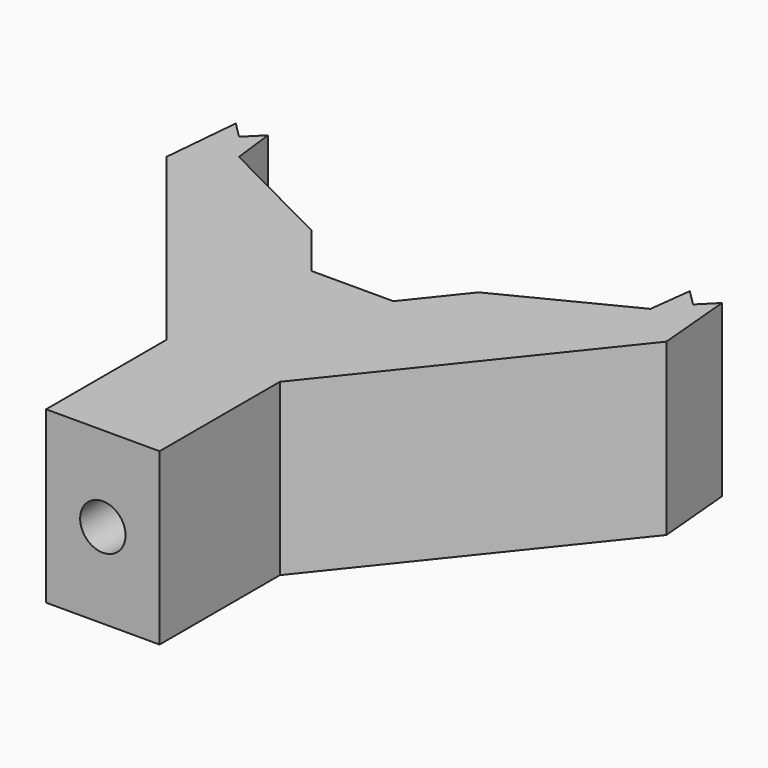
from build123d import *

# Parameters (mm, degrees)
F1_DEPTH = 19.05
F2_R     = 2.54
F3_DEPTH = 25.4


with BuildPart() as f1:
    # F0 (on Top) → F1 (new body)
    with BuildSketch(Plane.XY):
        with BuildLine():
            Line((6.35, 0), (0, 0))
            Line((0, 0), (0, -6.35))
            ThreePointArc((0, -6.35), (2.7507484386, -5.7232755505), (4.95851694, -3.966813552))
            ThreePointArc((4.95851694, -3.966813552), (5.9920398267, -2.1018940781), (6.35, 0))
        make_face()
        with BuildLine():
            Line((0, -6.35), (0, 0))
            Line((0, 0), (-6.35, 0))
            ThreePointArc((-6.35, 0), (-5.9920398267, -2.1018940781), (-4.95851694, -3.966813552))
            ThreePointArc((-4.95851694, -3.966813552), (-2.7507484386, -5.7232755505), (0, -6.35))
        make_face()
        with BuildLine():
            Line((0, 0), (-4.0659838908, 5.0824798635))
            Line((-4.0659838908, 5.0824798635), (-4.95851694, 3.966813552))
            ThreePointArc((-4.95851694, 3.966813552), (-5.9920398267, 2.1018940781), (-6.35, 0))
            Line((-6.35, 0), (0, 0))
        make_face()
        with BuildLine():
            Line((4.0659838908, 5.0824798635), (0, 0))
            Line((0, 0), (6.35, 0))
            ThreePointArc((6.35, 0), (5.9920398267, 2.1018940781), (4.95851694, 3.966813552))
            Line((4.95851694, 3.966813552), (4.0659838908, 5.0824798635))
        make_face()
        Polygon((0, 10.1649597269), (-4.0659838908, 5.0824798635), (0, 0), (4.0659838908, 5.0824798635), align=None)
        with BuildLine():
            Line((-4.0659838908, 5.0824798635), (-12.7, 15.875))
            Line((-12.7, 15.875), (-23.0199118688, 28.774889836))
            Line((-23.0199118688, 28.774889836), (-25.4, 31.75))
            Line((-25.4, 31.75), (-27.1960512242, 33.5460512242))
            Line((-27.1960512242, 33.5460512242), (-27.9784288088, 24.8080762841))
            Line((-27.9784288088, 24.8080762841), (-6.35, -2.2274597269))
            Line((-6.35, -2.2274597269), (-6.35, 0))
            ThreePointArc((-6.35, 0), (-5.9920398267, 2.1018940781), (-4.95851694, 3.966813552))
            Line((-4.95851694, 3.966813552), (-4.0659838908, 5.0824798635))
        make_face()
        Polygon((-4.5680322185, 15.875), (-12.7, 15.875), (-4.0659838908, 5.0824798635), (0, 10.1649597269), align=None)
        Polygon((4.5680322185, 15.875), (0, 10.1649597269), (4.0659838908, 5.0824798635), (12.7, 15.875), align=None)
        Polygon((4.5680322185, 15.875), (-4.5680322185, 15.875), (0, 10.1649597269), align=None)
        with BuildLine():
            Line((12.7, 15.875), (4.0659838908, 5.0824798635))
            Line((4.0659838908, 5.0824798635), (4.95851694, 3.966813552))
            ThreePointArc((4.95851694, 3.966813552), (5.9920398267, 2.1018940781), (6.35, 0))
            Line((6.35, 0), (6.35, -2.2274597269))
            Line((6.35, -2.2274597269), (27.9784288088, 24.8080762841))
            Line((27.9784288088, 24.8080762841), (27.1960512242, 33.5460512242))
            Line((27.1960512242, 33.5460512242), (25.4, 31.75))
            Line((25.4, 31.75), (23.0199118688, 28.774889836))
            Line((23.0199118688, 28.774889836), (12.7, 15.875))
        make_face()
        Polygon((9.3344051145, 21.8329661201), (4.5680322185, 15.875), (12.7, 15.875), (23.0199118688, 28.774889836), align=None)
        Polygon((-23.0199118688, 28.774889836), (-12.7, 15.875), (-4.5680322185, 15.875), (-9.3344051145, 21.8329661201), align=None)
        Polygon((23.6039487758, 33.5460512242), (23.0199118688, 28.774889836), (25.4, 31.75), align=None)
        Polygon((-25.4, 31.75), (-23.0199118688, 28.774889836), (-23.6039487758, 33.5460512242), align=None)
        with BuildLine():
            ThreePointArc((-4.95851694, -3.966813552), (-5.9920398267, -2.1018940781), (-6.35, 0))
            Line((-6.35, 0), (-6.35, -2.2274597269))
            Line((-6.35, -2.2274597269), (-4.95851694, -3.966813552))
        make_face()
        with BuildLine():
            Line((6.35, -2.2274597269), (6.35, 0))
            ThreePointArc((6.35, 0), (5.9920398267, -2.1018940781), (4.95851694, -3.966813552))
            Line((4.95851694, -3.966813552), (6.35, -2.2274597269))
        make_face()
        with BuildLine():
            ThreePointArc((4.95851694, -3.966813552), (2.7507484386, -5.7232755505), (0, -6.35))
            Line((0, -6.35), (0, -19.05))
            Line((0, -19.05), (6.35, -19.05))
            Line((6.35, -19.05), (6.35, -2.2274597269))
            Line((6.35, -2.2274597269), (4.95851694, -3.966813552))
        make_face()
        with BuildLine():
            Line((0, -19.05), (0, -6.35))
            ThreePointArc((0, -6.35), (-2.7507484386, -5.7232755505), (-4.95851694, -3.966813552))
            Line((-4.95851694, -3.966813552), (-6.35, -2.2274597269))
            Line((-6.35, -2.2274597269), (-6.35, -19.05))
            Line((-6.35, -19.05), (0, -19.05))
        make_face()
    extrude(amount=F1_DEPTH)

    # F2 (on face) → F3 (cut)
    with BuildSketch(Plane.XZ.offset(19.05)):
        with Locations((0, 9.525)):
            Circle(F2_R)
    extrude(amount=-F3_DEPTH, mode=Mode.SUBTRACT)


solid = f1.part
